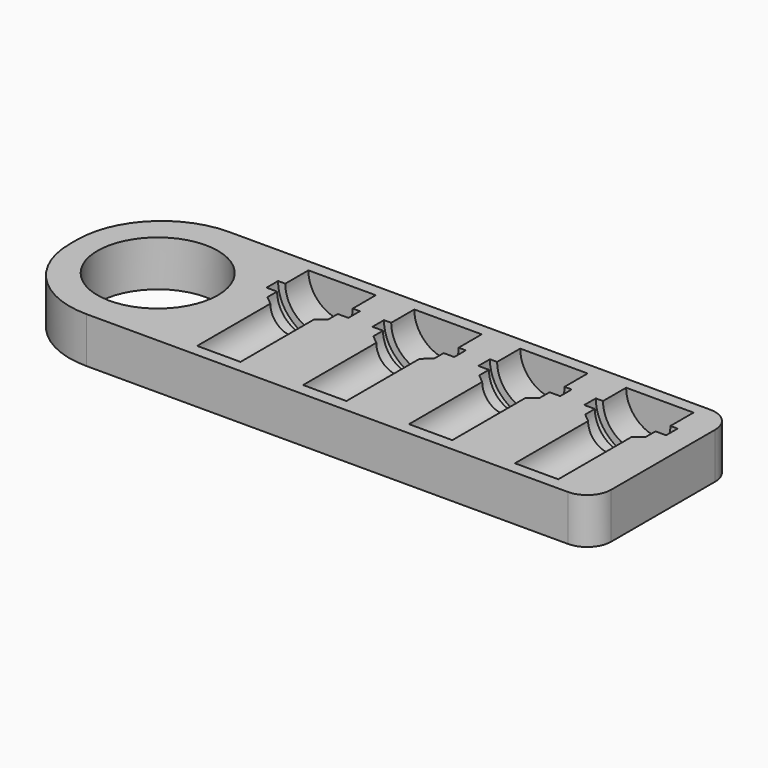
from build123d import *

# Parameters (mm, degrees)
F0_R     = 12.5
F1_DEPTH = 9.5


with BuildPart() as f1:
    # F0 (on Top) → F1 (new body)
    with BuildSketch(Plane.XY):
        with BuildLine():
            ThreePointArc((0, 17.5), (5.125631, 5.125631), (17.5, 0))
            Line((17.5, 0), (117.5, 0))
            ThreePointArc((117.5, 0), (121.035534, 1.464466), (122.5, 5))
            Line((122.5, 5), (122.5, 32))
            ThreePointArc((122.5, 32), (121.035534, 35.535534), (117.5, 37))
            Line((117.5, 37), (17.5, 37))
            ThreePointArc((17.5, 37), (5.125631, 31.874369), (0, 19.5))
            Line((0, 19.5), (0, 17.5))
        make_face()
        with Locations((17.5, 18.5)):
            Circle(F0_R, mode=Mode.SUBTRACT)
    extrude(amount=F1_DEPTH)

    # F2 (on face) → F3 (revolve, cut)
    with BuildSketch(Plane.XY.offset(9.5)):
        Polygon((109, 21.5), (109, 2.5), (113.5, 2.5), (113.5, 21.5), (115.3, 23), (115.3, 25.5), (117.5, 25.5), (117.5, 28.5), (116, 28.5), (116, 34.5), (109, 34.5), (109, 28.5), (109, 25.5), (109, 23), align=None)
    revolve(axis=Axis((109, 12, 9.5), (0, 1, 0)), mode=Mode.SUBTRACT)

    # F2 (on face) → F4 (revolve, cut)
    with BuildSketch(Plane.XY.offset(9.5)):
        Polygon((87, 21.5), (87, 2.5), (91.5, 2.5), (91.5, 21.5), (93.3, 23), (93.3, 25.5), (95.5, 25.5), (95.5, 28.5), (94, 28.5), (94, 34.5), (87, 34.5), (87, 28.5), (87, 25.5), (87, 23), align=None)
    revolve(axis=Axis((87, 12, 9.5), (0, 1, 0)), mode=Mode.SUBTRACT)

    # F2 (on face) → F5 (revolve, cut)
    with BuildSketch(Plane.XY.offset(9.5)):
        Polygon((65, 21.5), (65, 2.5), (69.5, 2.5), (69.5, 21.5), (71.3, 23), (71.3, 25.5), (73.5, 25.5), (73.5, 28.5), (72, 28.5), (72, 34.5), (65, 34.5), (65, 28.5), (65, 25.5), (65, 23), align=None)
    revolve(axis=Axis((65, 12, 9.5), (0, 1, 0)), mode=Mode.SUBTRACT)

    # F2 (on face) → F6 (revolve, cut)
    with BuildSketch(Plane.XY.offset(9.5)):
        Polygon((43, 21.5), (43, 2.5), (47.5, 2.5), (47.5, 21.5), (49.3, 23), (49.3, 25.5), (51.5, 25.5), (51.5, 28.5), (50, 28.5), (50, 34.5), (43, 34.5), (43, 28.5), (43, 25.5), (43, 23), align=None)
    revolve(axis=Axis((43, 12, 9.5), (0, 1, 0)), mode=Mode.SUBTRACT)


solid = f1.part
